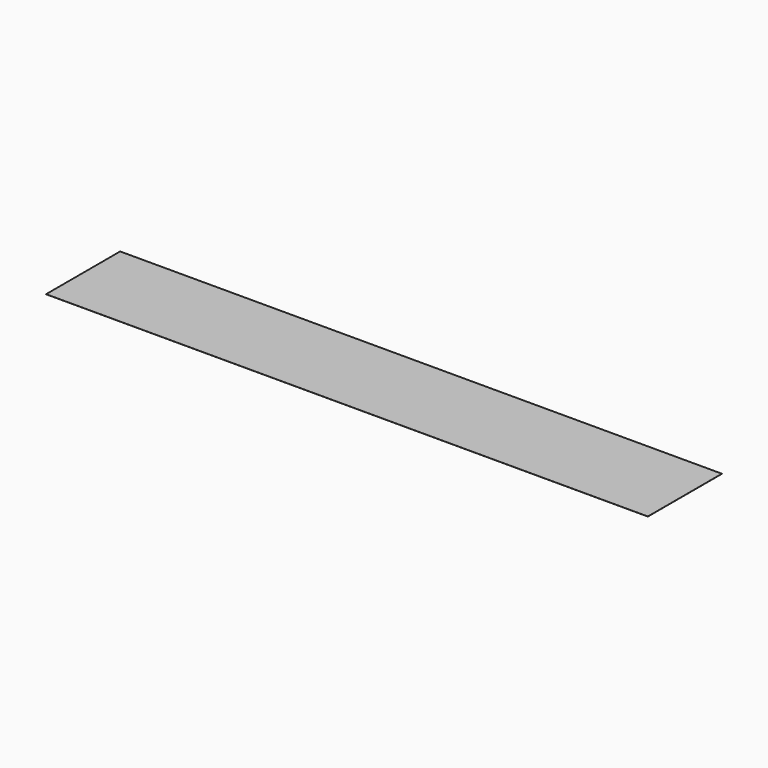
from build123d import *

# Parameters (mm, degrees)
BOX_W     = 65
BOX_H     = 10
BOX_DEPTH = 0.01


with BuildPart() as part:
    # Box → Box (new body)
    with BuildSketch(Plane.XY):
        with Locations((32.5, 5)):
            Rectangle(BOX_W, BOX_H)
    extrude(amount=BOX_DEPTH)


solid = part.part
